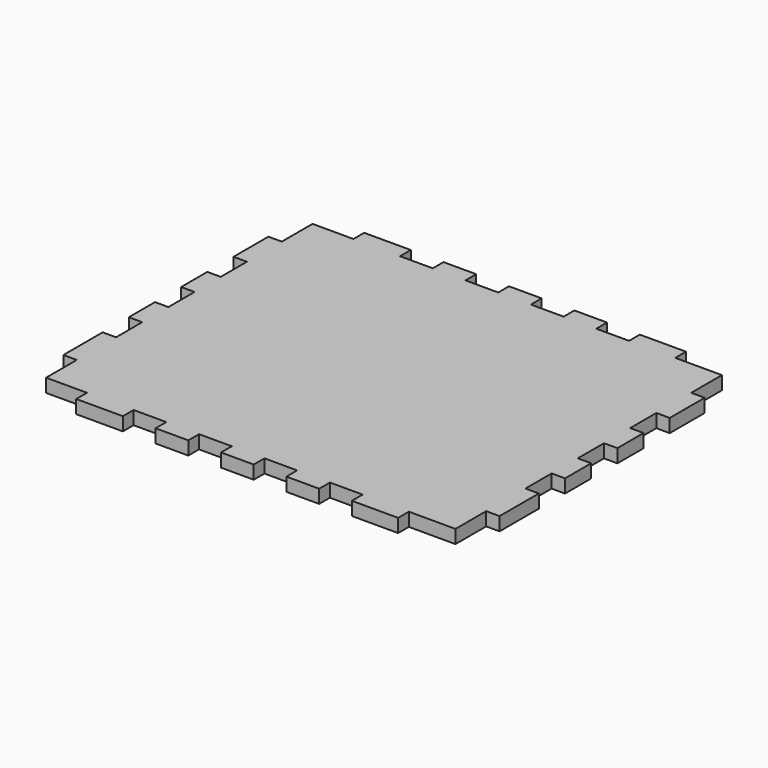
from build123d import *

# Parameters (mm, degrees)
F0_W     = 169.333316
F0_H     = 139.7
F1_DEPTH = 5.207
F2_W     = 5.207
F2_H     = 12.7
F2_W_2   = 12.7
F2_H_2   = 5.207
F3_DEPTH = 5.208


with BuildPart() as f1:
    # F0 (on Top) → F1 (new body)
    with BuildSketch(Plane.XY):
        Rectangle(F0_W, F0_H)
    extrude(amount=F1_DEPTH)

    # F2 (on face) → F3 (cut, through all)
    with BuildSketch(Plane.XY.offset(5.207)):
        Polygon((-79.459658, 49.73955), (-79.459658, 64.643), (-63.584658, 64.643), (-63.584658, 69.85), (-84.666658, 69.85), (-84.666658, 49.73955), align=None)
        with Locations((-82.063158, 26.456386)):
            Rectangle(F2_W, F2_H)
        with Locations((-82.063158, 1.056386)):
            Rectangle(F2_W, F2_H)
        with Locations((-82.063158, -24.343614)):
            Rectangle(F2_W, F2_H)
        Polygon((-79.459658, -49.743614), (-84.666658, -49.743614), (-84.666658, -69.85), (-63.584658, -69.85), (-63.584658, -64.643), (-79.459658, -64.643), align=None)
        with Locations((-39.13505, -67.2465)):
            Rectangle(F2_W_2, F2_H_2)
        with Locations((-13.73505, -67.2465)):
            Rectangle(F2_W_2, F2_H_2)
        with Locations((11.66495, -67.2465)):
            Rectangle(F2_W_2, F2_H_2)
        with Locations((37.06495, -67.2465)):
            Rectangle(F2_W_2, F2_H_2)
        Polygon((61.36005, -64.643), (61.36005, -69.85), (84.666658, -69.85), (84.666658, -49.743783), (79.459658, -49.743783), (79.459658, -64.643), align=None)
        with Locations((82.063158, -24.343783)):
            Rectangle(F2_W, F2_H)
        with Locations((82.063158, 1.056217)):
            Rectangle(F2_W, F2_H)
        Polygon((84.666658, 69.85), (61.36005, 69.85), (61.36005, 64.643), (79.459658, 64.643), (79.459658, 49.73955), (84.666658, 49.73955), align=None)
        with Locations((37.06495, 67.2465)):
            Rectangle(F2_W_2, F2_H_2)
        with Locations((11.66495, 67.2465)):
            Rectangle(F2_W_2, F2_H_2)
        with Locations((82.063158, 26.456217)):
            Rectangle(F2_W, F2_H)
        with Locations((-13.73505, 67.2465)):
            Rectangle(F2_W_2, F2_H_2)
        with Locations((-39.13505, 67.2465)):
            Rectangle(F2_W_2, F2_H_2)
    extrude(amount=-F3_DEPTH, mode=Mode.SUBTRACT)


solid = f1.part
